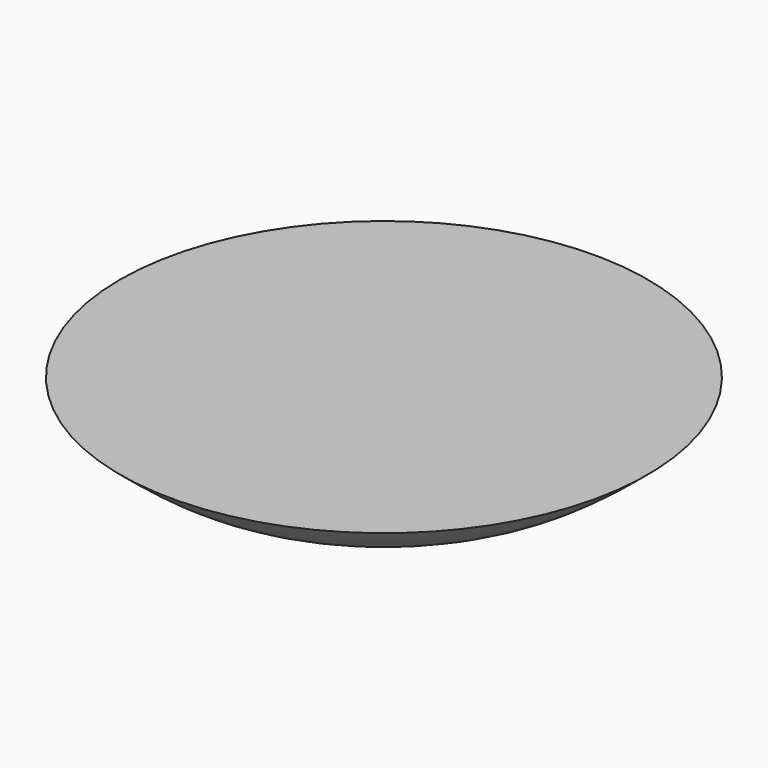
from build123d import *


with BuildPart() as f1:
    # F0 (on Front) → F1 (revolve)
    with BuildSketch(Plane.XZ):
        with BuildLine():
            Line((0, 22.3926529288), (-53.3516258001, 22.3926529288))
            add(Edge.make_bspline(
                [(-53.3516258001, 22.3926529288), (-46.5549425908, 16.7371989488), (-32.8371175558, 5.3227301847), (-5.9700991426, 17.1196084008), (-1.4247500546, 17.3038095324), (0, 17.3615477979)],
                knots=[0, 0, 0, 0, 0.4027004935, 0.8127751053, 1, 1, 1, 1], degree=3))
            Line((0, 17.3615477979), (0, 22.3926529288))
        make_face()
    revolve(axis=Axis((0, 0, 11.1963264644), (0, 0, 1)))


solid = f1.part
